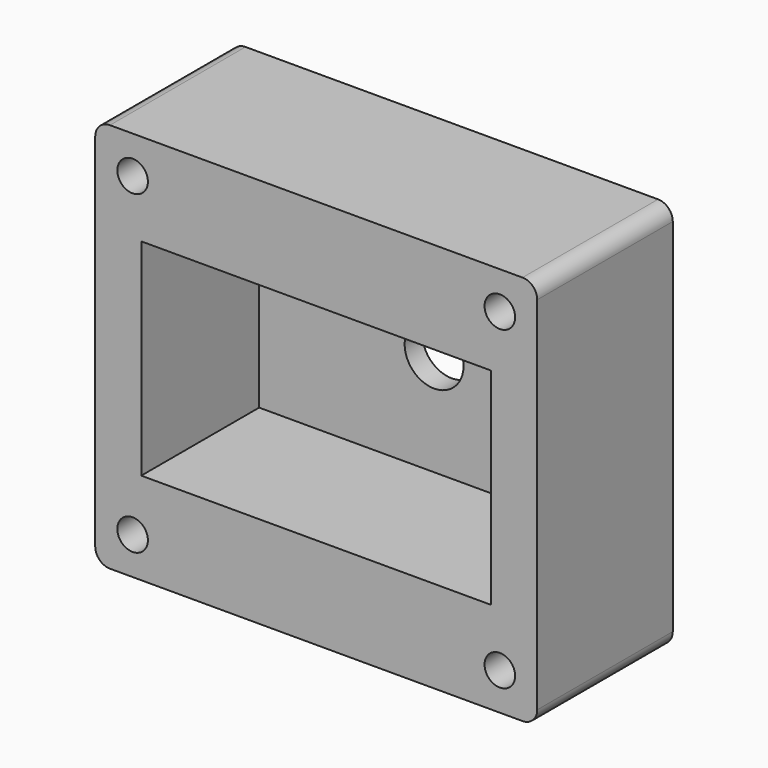
from build123d import *

# Parameters (mm, degrees)
F0_W     = 60
F0_H     = 53
F1_DEPTH = 23
F2_W     = 47.5
F2_H     = 28
F3_DEPTH = 20
F4_R     = 2
F5_R     = 2
F6_R     = 4
F7_DEPTH = 3
F8_R     = 2.075
F9_DEPTH = 23


with BuildPart() as f1:
    # F0 (on Front) → F1 (new body)
    with BuildSketch(Plane.XZ):
        Rectangle(F0_W, F0_H)
    extrude(amount=F1_DEPTH)

    # F2 (on face) → F3 (cut)
    with BuildSketch(Plane.XZ.offset(23)):
        Rectangle(F2_W, F2_H)
    extrude(amount=-F3_DEPTH, mode=Mode.SUBTRACT)

    # F4
    f4_edges = [f1.edges().sort_by_distance(p)[0] for p in [
        (-30, -11.5, -26.5),
    ]]
    fillet(f4_edges, radius=F4_R)

    # F5
    f5_edges = [f1.edges().sort_by_distance(p)[0] for p in [
        (30, -11.5, -26.5),
        (30, -11.5, 26.5),
        (-30, -11.5, 26.5),
    ]]
    fillet(f5_edges, radius=F5_R)

    # F6 (on face) → F7 (cut)
    with BuildSketch(Plane(origin=(0, 0, 0), x_dir=(-1, 0, 0), z_dir=(0, 1, 0))):
        Circle(F6_R)
    extrude(amount=-F7_DEPTH, mode=Mode.SUBTRACT)

    # F8 (on face) → F9 (cut)
    with BuildSketch(Plane.XZ.offset(23)):
        with Locations((-24.925, 21.425)):
            Circle(F8_R)
        with Locations((24.925, 21.425)):
            Circle(F8_R)
        with Locations((24.925, -21.425)):
            Circle(F8_R)
        with Locations((-24.925, -21.425)):
            Circle(F8_R)
    extrude(amount=-F9_DEPTH, mode=Mode.SUBTRACT)


solid = f1.part
